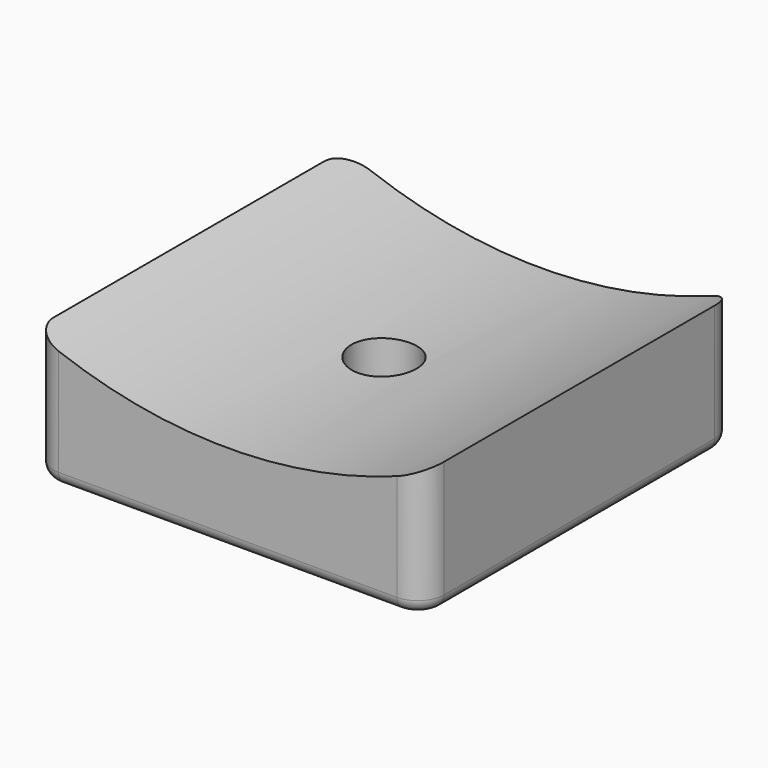
from build123d import *

# Parameters (mm, degrees)
F0_W     = 30
F0_H     = 30
F1_DEPTH = 10
F3_DEPTH = 50
F5_D     = 5
F6_R     = 2
F7_R     = 1


with BuildPart() as f1:
    # F0 (on Top) → F1 (new body)
    with BuildSketch(Plane.XY):
        Rectangle(F0_W, F0_H)
    extrude(amount=F1_DEPTH)

    # F2 (on face) → F3 (cut)
    with BuildSketch(Plane.XZ.offset(15)):
        with BuildLine():
            Line((15, 10), (-15, 10))
            ThreePointArc((-15, 10), (0, 6.869318), (15, 10))
        make_face()
    extrude(amount=-F3_DEPTH, mode=Mode.SUBTRACT)

    # F5 (through all)
    with Locations(Plane(origin=(0, 0, 0), x_dir=(1, 0, 0), z_dir=(0, 0, -1))):
        with Locations((0, 0)):
            Hole(F5_D / 2)

    # F6
    f6_edges = [f1.edges().sort_by_distance(p)[0] for p in [
        (-15, -15, 5),
        (15, -15, 5),
        (15, 15, 5),
        (-15, 15, 5),
    ]]
    fillet(f6_edges, radius=F6_R)

    # F7
    f7_edges = [f1.edges().sort_by_distance(p)[0] for p in [
        (-15, 0, 0),
    ]]
    fillet(f7_edges, radius=F7_R)


solid = f1.part
